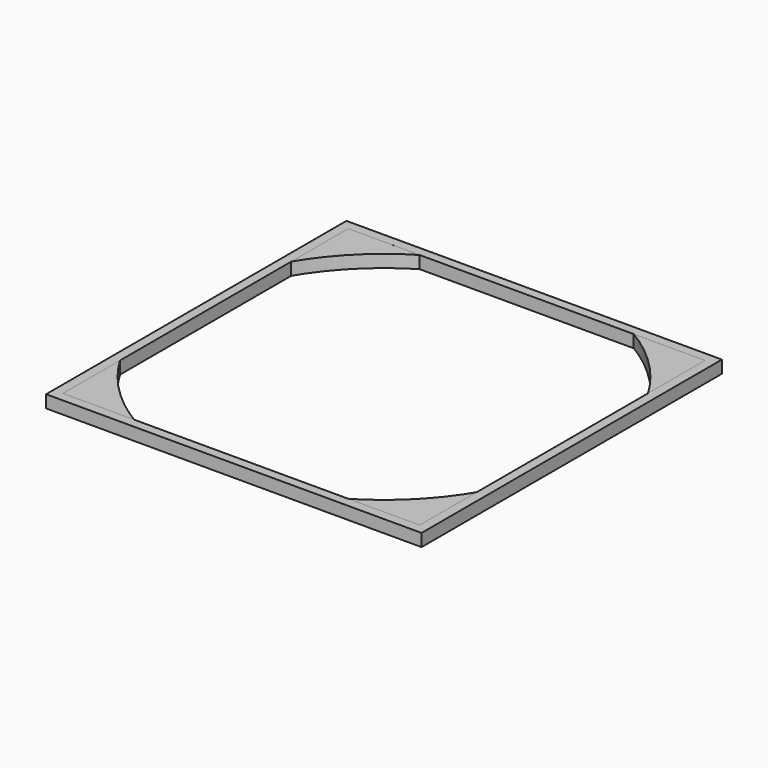
from build123d import *

# Parameters (mm, degrees)
F0_W     = 120
F0_H     = 120
F1_DEPTH = 4
F3_DEPTH = 25
F5_DEPTH = 4


with BuildPart() as f1:
    # F0 (on Top) → F1 (new body)
    with BuildSketch(Plane.XY):
        Rectangle(F0_W, F0_H)
    extrude(amount=F1_DEPTH)

    # F2 (on face) → F3 (cut)
    with BuildSketch(Plane.XY.offset(4)):
        with BuildLine():
            Line((60, -28.6749019179), (60, 28.6749019179))
            ThreePointArc((60, 28.6749019179), (47.0226009489, 47.0226009489), (28.6749019179, 60))
            Line((28.6749019179, 60), (-28.6749019179, 60))
            ThreePointArc((-28.6749019179, 60), (-47.0226009489, 47.0226009489), (-60, 28.6749019179))
            Line((-60, 28.6749019179), (-60, -28.6749019179))
            ThreePointArc((-60, -28.6749019179), (-47.0226009489, -47.0226009489), (-28.6749019179, -60))
            Line((-28.6749019179, -60), (28.6749019179, -60))
            ThreePointArc((28.6749019179, -60), (47.0226009489, -47.0226009489), (60, -28.6749019179))
        make_face()
    extrude(amount=-F3_DEPTH, mode=Mode.SUBTRACT)


with BuildPart() as f5:
    # F4 (on face) → F5 (new body)
    with BuildSketch(Plane.XY.offset(4)):
        with BuildLine():
            Line((60, 60), (-28.6749019179, 60))
            ThreePointArc((-28.6749019179, 60), (-31.4995545782, 58.5664414266), (-34.2527371169, 57))
            Line((-34.2527371169, 57), (57, 57))
            Line((57, 57), (57, -57))
            Line((57, -57), (-57, -57))
            Line((-57, -57), (-57, 34.2527371169))
            ThreePointArc((-57, 34.2527371169), (-58.5664414266, 31.4995545782), (-60, 28.6749019179))
            Line((-60, 28.6749019179), (-60, -60))
            Line((-60, -60), (60, -60))
            Line((60, -60), (60, 60))
        make_face()
        with BuildLine():
            Line((-28.6749019179, 60), (-60, 60))
            Line((-60, 60), (-60, 28.6749019179))
            ThreePointArc((-60, 28.6749019179), (-58.5664414266, 31.4995545782), (-57, 34.2527371169))
            Line((-57, 34.2527371169), (-57, 57))
            Line((-57, 57), (-34.2527371169, 57))
            ThreePointArc((-34.2527371169, 57), (-31.4995545782, 58.5664414266), (-28.6749019179, 60))
        make_face()
    extrude(amount=-F5_DEPTH)


solid = Compound([f1.part, f5.part])
